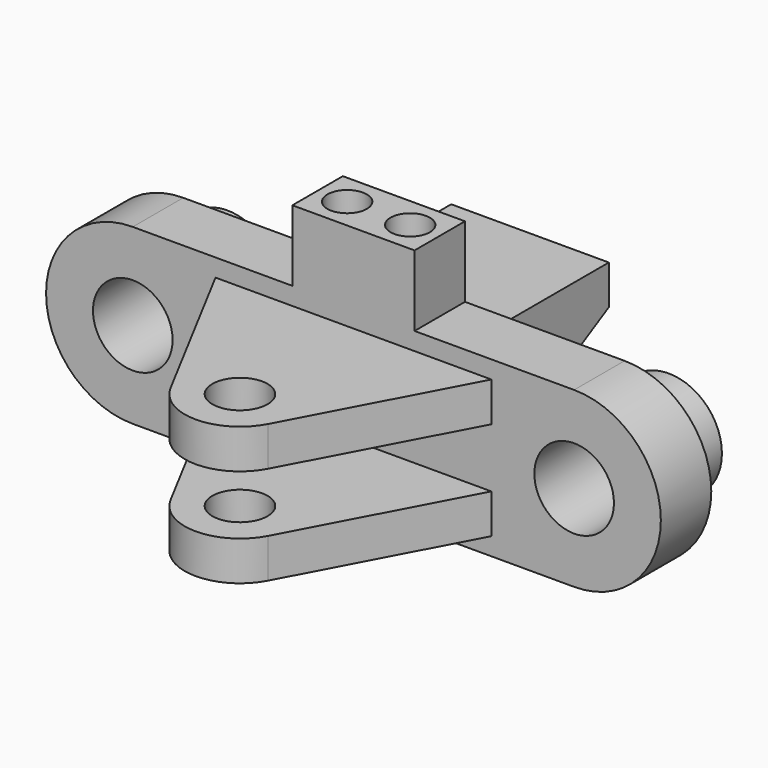
from build123d import *

# Parameters (mm, degrees)
PAD_DEPTH       = 8
SKETCH001_R     = 6.75
PAD001_DEPTH    = 7
SKETCH002_R     = 5.05
POCKET_DEPTH    = 15.001
SKETCH003_R     = 3.5
PAD002_DEPTH    = 5
PAD003_DEPTH    = 10
SKETCH005_W     = 15.5
SKETCH005_H     = 8
PAD004_DEPTH    = 9
SKETCH006_R     = 2.5
POCKET001_DEPTH = 31.001
POCKET002_DEPTH = 3.1


with BuildPart() as part:
    # Sketch → Pad (new body)
    with BuildSketch(Plane.XZ):
        with BuildLine():
            ThreePointArc((-28, 11), (-39, 0), (-28, -11))
            Line((-28, -11), (28, -11))
            ThreePointArc((28, -11), (39, 0), (28, 11))
            Line((-28, 11), (28, 11))
        make_face()
    extrude(amount=PAD_DEPTH)

    # Sketch001 (on Face5 of Pad) → Pad001 (join)
    with BuildSketch(Plane(origin=(0, 0, 0), x_dir=(1, 0, 0), z_dir=(0, 1, 0))):
        with Locations((-28, 0)):
            Circle(SKETCH001_R)
        with Locations((28, 0)):
            Circle(SKETCH001_R)
    extrude(amount=PAD001_DEPTH)

    # Sketch002 (on Face5 of Pad001) → Pocket (cut, through all)
    with BuildSketch(Plane.XZ.offset(8)):
        with Locations((-28, 0)):
            Circle(SKETCH002_R)
        with Locations((28, 0)):
            Circle(SKETCH002_R)
    extrude(amount=-POCKET_DEPTH, mode=Mode.SUBTRACT)

    # Sketch003 (on DatumPlane) → Pad002 (join)
    with BuildSketch(Plane.XY.offset(3.75)):
        with BuildLine():
            Line((-17.5, -8), (-6.180484, -29.286582))
            ThreePointArc((-6.180484, -29.286582), (0, -33), (6.180484, -29.286582))
            Line((17.5, -8), (6.180484, -29.286582))
            Line((-17.5, -8), (17.5, -8))
        make_face()
        with Locations((0, -26)):
            Circle(SKETCH003_R, mode=Mode.SUBTRACT)
    pad002 = extrude(amount=PAD002_DEPTH)

    # Mirrored: Pad002 across XY
    add(pad002.mirror(Plane.XY))

    # Sketch004 → Pad003 (join, symmetric)
    with BuildSketch(Plane.YZ):
        Polygon((0, 8), (0, -8), (20, 3), (20, 8), align=None)
    extrude(amount=PAD003_DEPTH, both=True)

    # Sketch005 (on Face2 of Pad003) → Pad004 (join)
    with BuildSketch(Plane(origin=(0, 0, 11), x_dir=(-1, 0, 0), z_dir=(0, 0, 1))):
        with Locations((0, 4)):
            Rectangle(SKETCH005_W, SKETCH005_H)
    extrude(amount=PAD004_DEPTH)

    # Sketch006 (on Face3 of Pad004) → Pocket001 (cut, through all)
    with BuildSketch(Plane(origin=(0, 0, -11), x_dir=(1, 0, 0), z_dir=(0, 0, -1))):
        with Locations((-4, 4)):
            Circle(SKETCH006_R)
        with Locations((4, 4)):
            Circle(SKETCH006_R)
    extrude(amount=-POCKET001_DEPTH, mode=Mode.SUBTRACT)

    # Sketch007 (on Face3 of Pocket001) → Pocket002 (cut)
    with BuildSketch(Plane(origin=(0, 0, -11), x_dir=(1, 0, 0), z_dir=(0, 0, -1))):
        Polygon((-0.55, 5.991858), (-4, 7.983717), (-7.45, 5.991858), (-7.45, 2.008142), (-4, 0.016283), (-0.55, 2.008142), align=None)
        Polygon((4, 7.983717), (0.55, 5.991858), (0.55, 2.008142), (4, 0.016283), (7.45, 2.008142), (7.45, 5.991858), align=None)
    extrude(amount=-POCKET002_DEPTH, mode=Mode.SUBTRACT)


solid = part.part
